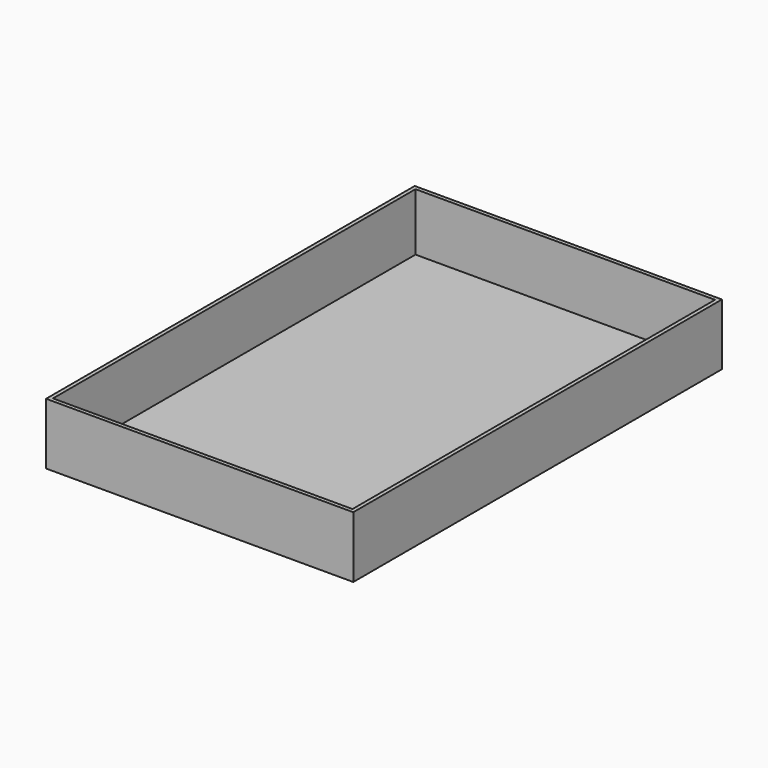
from build123d import *

# Parameters (mm, degrees)
F0_W     = 400
F0_H     = 600
F1_DEPTH = 80
F2_T     = -5


with BuildPart() as f1:
    # F0 (on Top) → F1 (new body)
    with BuildSketch(Plane.XY):
        Rectangle(F0_W, F0_H)
    extrude(amount=F1_DEPTH)

    # F2
    f2_openings = [f1.faces().sort_by_distance(p)[0] for p in [
        (0, 0, 80),
    ]]
    offset(amount=F2_T, openings=f2_openings)


with BuildPart() as f3_1:
    # F3: copy of F1
    add(f1.part.moved(Location((0, 0, 90))))


solid = f1.part
